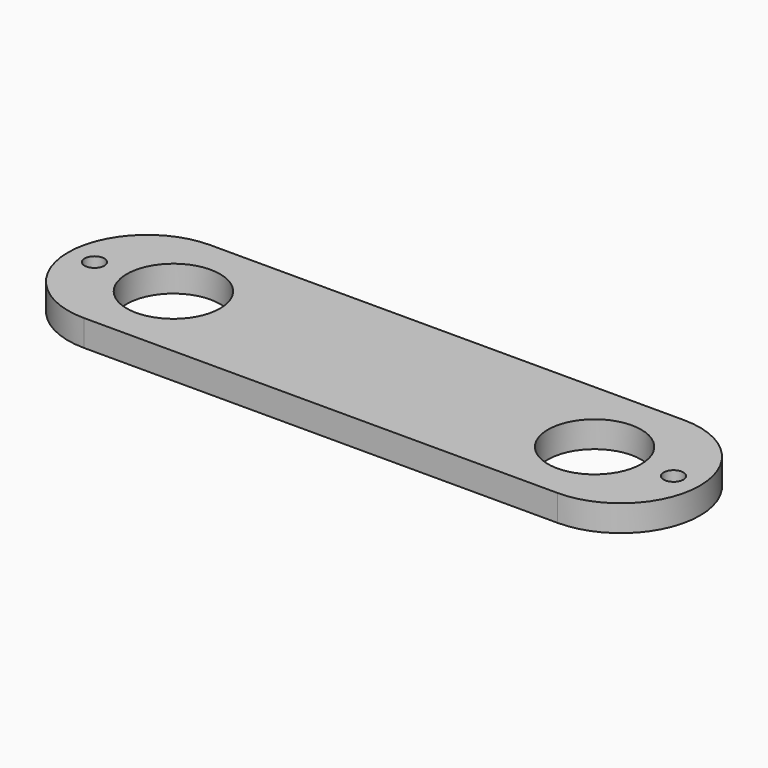
from build123d import *

# Parameters (mm, degrees)
F0_R     = 11.24966
F2_DEPTH = 6.35
F1_R     = 2.38125
F3_DEPTH = 6.35


with BuildPart() as f2:
    # F0 (on Top) → F2 (new body)
    with BuildSketch(Plane.XY):
        with BuildLine():
            Line((57.15, 19.05), (-57.15, 19.05))
            ThreePointArc((-57.15, 19.05), (-76.2, 0), (-57.15, -19.05))
            Line((-57.15, -19.05), (57.15, -19.05))
            ThreePointArc((57.15, -19.05), (76.2, 0), (57.15, 19.05))
        make_face()
        with Locations((-50.8, 0)):
            Circle(F0_R, mode=Mode.SUBTRACT)
        with Locations((50.8, 0)):
            Circle(F0_R, mode=Mode.SUBTRACT)
    extrude(amount=F2_DEPTH)

    # F1 (on face) → F3 (cut)
    with BuildSketch(Plane.XY):
        with Locations((-69.85, 0)):
            Circle(F1_R)
        with Locations((69.85, 0)):
            Circle(F1_R)
    extrude(amount=F3_DEPTH, mode=Mode.SUBTRACT)


solid = f2.part
